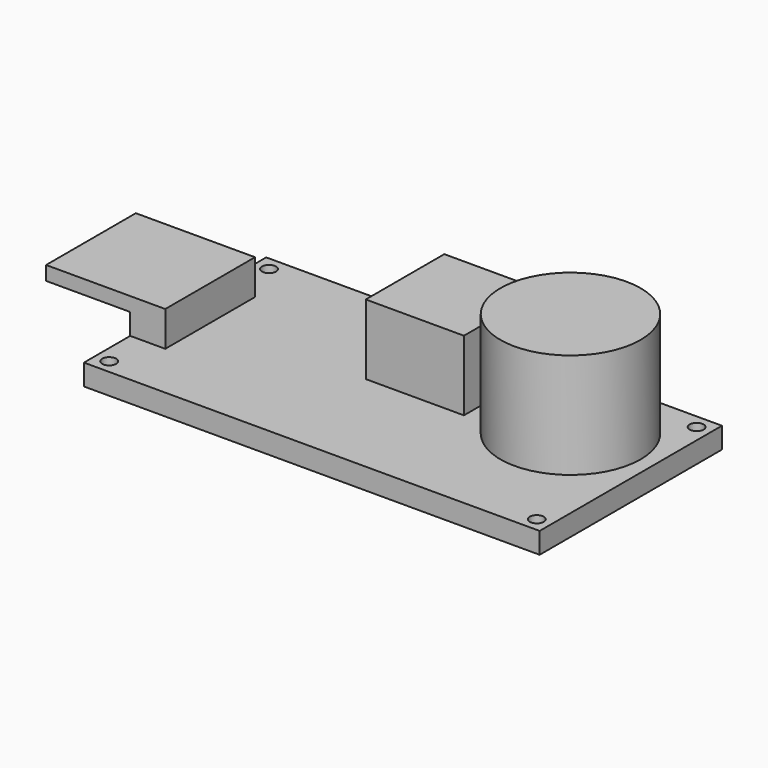
from build123d import *

# Parameters (mm, degrees)
F0_R          = 0.5
F0_W          = 7
F0_H          = 7
F0_R_2        = 5
F0_W_2        = 2.5
F0_H_2        = 8
F1_DEPTH      = 1.5
F2_DEPTH      = 7.5
F3_DEPTH      = 5
F4_DEPTH      = 2.5
F4_DEPTH_BACK = 3
F5_START      = 1.5
F0_W_3        = 6
F5_DEPTH      = 1


with BuildPart() as f1:
    # F0 (on Top) → F1 (new body)
    with BuildSketch(Plane.XY):
        Polygon((16.25, 8.125), (-16.25, 8.125), (-16.25, 4), (-13.75, 4), (-13.75, -4), (-16.25, -4), (-16.25, -8.125), (16.25, -8.125), align=None)
        with Locations((-15.25, -7.125)):
            Circle(F0_R, mode=Mode.SUBTRACT)
        with Locations((15.25, -7.125)):
            Circle(F0_R, mode=Mode.SUBTRACT)
        with Locations((-15.25, 7.125)):
            Circle(F0_R, mode=Mode.SUBTRACT)
        with Locations((0.75, 3.625)):
            Rectangle(F0_W, F0_H, mode=Mode.SUBTRACT)
        with Locations((10.25, 2.125)):
            Circle(F0_R_2, mode=Mode.SUBTRACT)
        with Locations((15.25, 7.125)):
            Circle(F0_R, mode=Mode.SUBTRACT)
        with Locations((-15, 0)):
            Rectangle(F0_W_2, F0_H_2)
        with Locations((0.75, 3.625)):
            Rectangle(F0_W, F0_H)
        with Locations((10.25, 2.125)):
            Circle(F0_R_2)
    extrude(amount=-F1_DEPTH)

    # F0 (on Top) → F2 (join)
    with BuildSketch(Plane.XY):
        with Locations((10.25, 2.125)):
            Circle(F0_R_2)
    extrude(amount=F2_DEPTH)

    # F0 (on Top) → F3 (join)
    with BuildSketch(Plane.XY):
        with Locations((0.75, 3.625)):
            Rectangle(F0_W, F0_H)
    extrude(amount=F3_DEPTH)

    # F0 (on Top) → F4 (join, two sides)
    with BuildSketch(Plane.XY) as f4_sk:
        with Locations((-15, 0)):
            Rectangle(F0_W_2, F0_H_2)
    extrude(amount=F4_DEPTH)
    extrude(f4_sk.sketch, amount=-F4_DEPTH_BACK)

    # F0 (on Top) → F5 (join)
    with BuildSketch(Plane.XY.offset(F5_START)):
        with Locations((-19.25, 0)):
            Rectangle(F0_W_3, F0_H_2)
    extrude(amount=F5_DEPTH)


solid = f1.part
